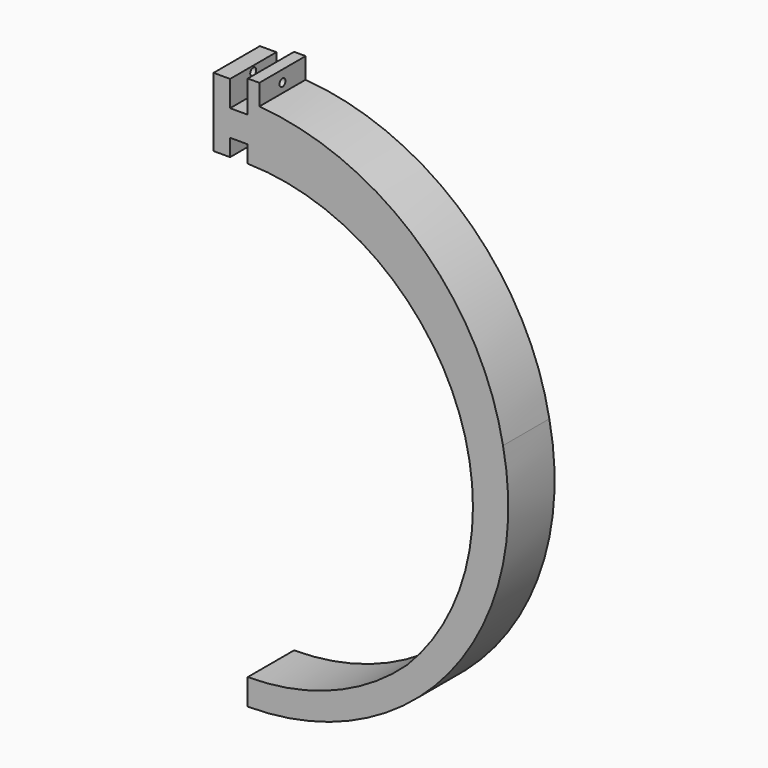
from build123d import *

# Parameters (mm, degrees)
F0_W     = 4
F0_H     = 2.1
F1_DEPTH = 20
F2_R     = 1.3
F3_DEPTH = 25


with BuildPart() as f1:
    # F0 (on Front) → F1 (new body)
    with BuildSketch(Plane.XZ):
        with BuildLine():
            Line((0, -171), (0, -180))
            ThreePointArc((0, -180), (24.732641, -176.534944), (47.560838, -166.406588))
            ThreePointArc((47.560838, -166.406588), (82.152554, -125.312571), (88.168435, -71.935476))
            ThreePointArc((88.168435, -71.935476), (56.895487, -20.265478), (0, 0))
            Line((0, 0), (-6.1, 0))
            Line((-6.1, 0), (-6.1, 8.9))
            Line((-6.1, 8.9), (-11.8, 8.9))
            Line((-11.8, 8.9), (-11.8, -14.9))
            Line((-11.8, -14.9), (-6.1, -14.9))
            Line((-6.1, -14.9), (-6.1, -9))
            Line((-6.1, -9), (0, -9))
            ThreePointArc((0, -9), (75.429541, -60.480779), (54.978303, -149.484336))
            ThreePointArc((54.978303, -149.484336), (29.519221, -165.429541), (0, -171))
        make_face()
        with BuildLine():
            ThreePointArc((88.168435, -71.935476), (82.152554, -125.312571), (47.560838, -166.406588))
            ThreePointArc((47.560838, -166.406588), (82.684984, -125.541432), (88.168435, -71.935476))
        make_face()
        with BuildLine():
            ThreePointArc((0, 0), (56.895487, -20.265478), (88.168435, -71.935476))
            ThreePointArc((88.168435, -71.935476), (58.985882, -19.730808), (4.007425, 3.813151))
            ThreePointArc((4.007425, 3.813151), (2.0049, 3.944638), (0, 4.032774))
            Line((0, 4.032774), (0, 0))
        make_face()
        with BuildLine():
            ThreePointArc((0, -14.9), (71.914479, -64.044223), (54.978303, -149.484336))
            ThreePointArc((54.978303, -149.484336), (75.429541, -60.480779), (0, -9))
            Line((0, -9), (0, -14.9))
        make_face()
        with BuildLine():
            ThreePointArc((0, 4.032774), (2.0049, 3.944638), (4.007425, 3.813151))
            Line((4.007425, 3.813151), (4, 4))
            Line((4, 4), (4, 8.9))
            Line((4, 8.9), (0, 8.9))
            Line((0, 8.9), (0, 4.032774))
        make_face()
        with Locations((2, 9.95)):
            Rectangle(F0_W, F0_H)
    extrude(amount=F1_DEPTH)

    # F2 (on face) → F3 (cut)
    with BuildSketch(Plane.YZ.offset(4)):
        with Locations((-10, 7)):
            Circle(F2_R)
    extrude(amount=-F3_DEPTH, mode=Mode.SUBTRACT)


solid = f1.part
